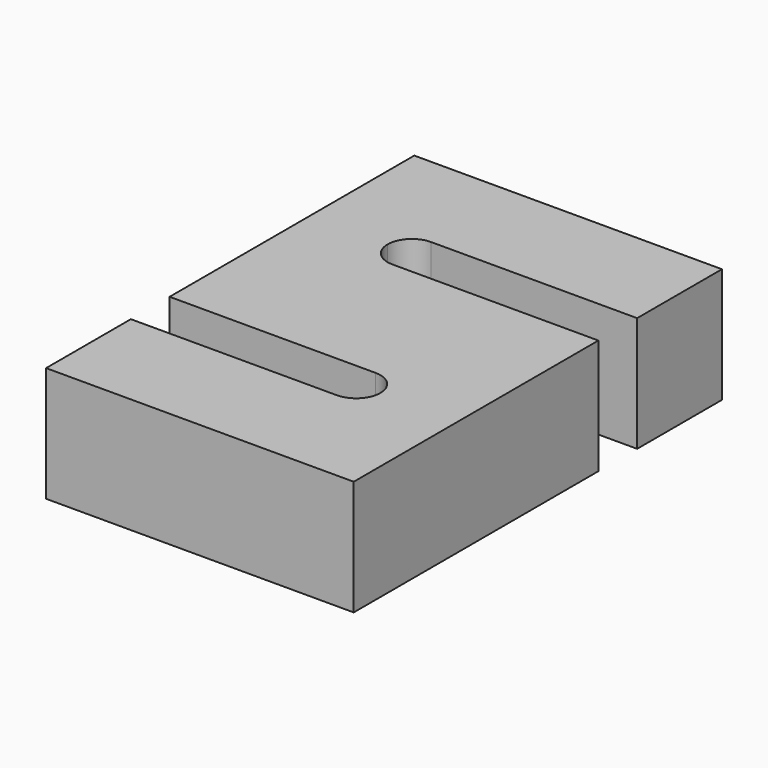
from build123d import *

# Parameters (mm, degrees)
F0_W     = 50.8
F0_H     = 76
F1_DEPTH = 19
F3_DEPTH = 19.001
F5_DEPTH = 19.001


with BuildPart() as f1:
    # F0 (on Top) → F1 (new body)
    with BuildSketch(Plane.XY):
        Rectangle(F0_W, F0_H)
    extrude(amount=F1_DEPTH)

    # F2 (on face) → F3 (cut, through all)
    with BuildSketch(Plane.XY.offset(19)):
        with BuildLine():
            Line((-25.4, -12.5), (-25.4, -20.5))
            Line((-25.4, -20.5), (8.6, -20.5))
            ThreePointArc((8.6, -20.5), (11.428427, -19.328427), (12.6, -16.5))
            ThreePointArc((12.6, -16.5), (11.428427, -13.671573), (8.6, -12.5))
            Line((8.6, -12.5), (-25.4, -12.5))
        make_face()
    extrude(amount=-F3_DEPTH, mode=Mode.SUBTRACT)

    # F4 (on face) → F5 (cut, through all)
    with BuildSketch(Plane.XY.offset(19)):
        with BuildLine():
            Line((25.4, 12.5), (25.4, 20.5))
            Line((25.4, 20.5), (-8.6, 20.5))
            ThreePointArc((-8.6, 20.5), (-11.428427, 19.328427), (-12.6, 16.5))
            ThreePointArc((-12.6, 16.5), (-11.428427, 13.671573), (-8.6, 12.5))
            Line((-8.6, 12.5), (25.4, 12.5))
        make_face()
    extrude(amount=-F5_DEPTH, mode=Mode.SUBTRACT)


solid = f1.part
